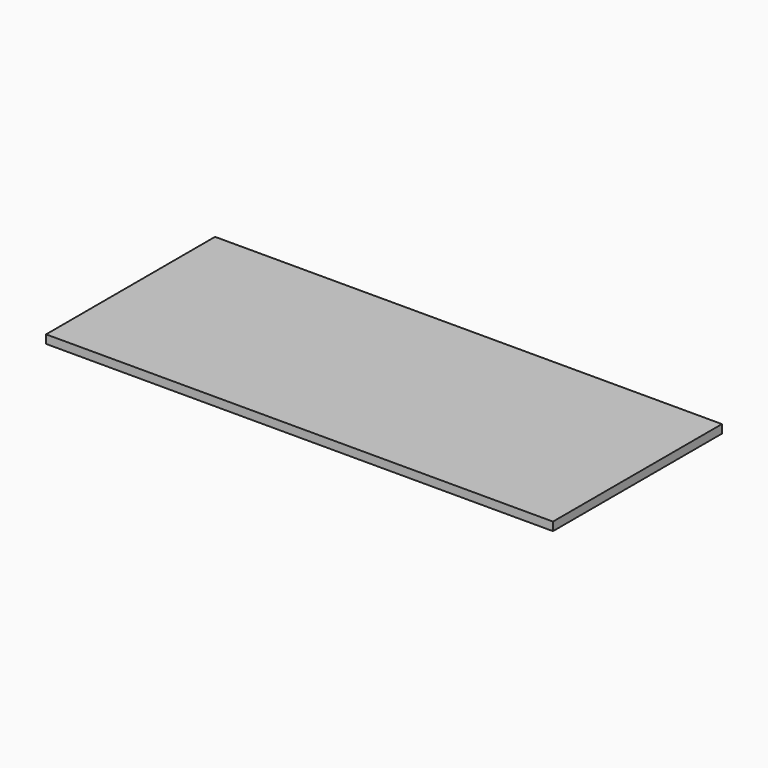
from build123d import *

# Parameters (mm, degrees)
SKETCH_W  = 120
SKETCH_H  = 50
PAD_DEPTH = 2


with BuildPart() as part:
    # Sketch → Pad (new body)
    with BuildSketch(Plane.XY):
        with Locations((60, 25)):
            Rectangle(SKETCH_W, SKETCH_H)
    extrude(amount=PAD_DEPTH)


solid = part.part
